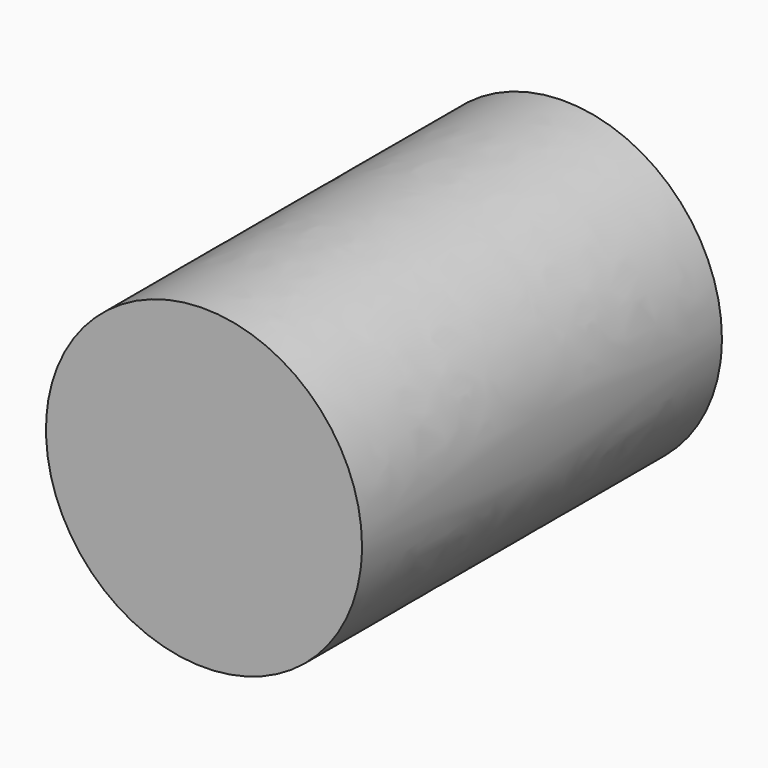
from build123d import *

# Parameters (mm, degrees)
F9_R = 26.343618
F8_R = 26.343618
F7_R = 26.343618
F6_R = 26.343618


with BuildPart() as f10:
    # F9 (on offset) → F10 section 0
    with BuildSketch(Plane.XZ.offset(25)):
        Circle(F9_R)
    # F8 (on offset) → F10 section 1
    with BuildSketch(Plane.XZ.offset(50)):
        Circle(F8_R)
    # F7 (on offset) → F10 section 2
    with BuildSketch(Plane.XZ.offset(75)):
        Circle(F7_R)
    # F6 (on offset) → F10 section 3
    with BuildSketch(Plane.XZ.offset(100)):
        Circle(F6_R)
    loft()


solid = f10.part
